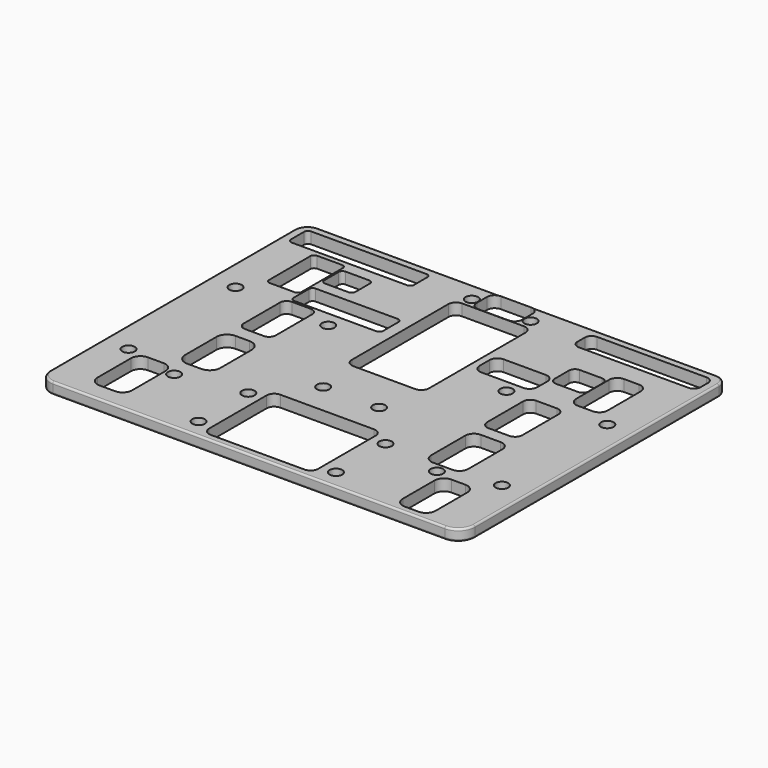
from build123d import *

# Parameters (mm, degrees)
SKETCH_R     = 1.65
PAD001_DEPTH = 3
FILLET_R     = 0.5
FILLET001_R  = 0.5
POCKET_DEPTH = 2


with BuildPart() as part:
    # Sketch → Pad001 (new body)
    with BuildSketch(Plane.XY):
        with BuildLine():
            Line((-55.535944, 39.732814), (-55.535944, -40.547299))
            ThreePointArc((-55.535944, -40.547299), (-54.462861, -43.137949), (-51.872211, -44.211031))
            Line((-51.872211, -44.211031), (51.109721, -44.211031))
            ThreePointArc((51.109721, -44.211031), (54.227189, -42.919734), (55.518486, -39.802266))
            Line((55.518486, -39.802266), (55.518486, 40.274742))
            ThreePointArc((55.518486, 40.274742), (54.676723, 42.306937), (52.644529, 43.148699))
            Line((52.644529, 43.148699), (-52.120058, 43.148699))
            ThreePointArc((-52.120058, 43.148699), (-54.535454, 42.148209), (-55.535944, 39.732814))
        make_face()
        with Locations((-48.832985, 12.003058)):
            Circle(SKETCH_R, mode=Mode.SUBTRACT)
        with Locations((-48.804817, -23.155836)):
            Circle(SKETCH_R, mode=Mode.SUBTRACT)
        with Locations((-34.51368, -26.033752)):
            Circle(SKETCH_R, mode=Mode.SUBTRACT)
        with Locations((34.487095, -26.022638)):
            Circle(SKETCH_R, mode=Mode.SUBTRACT)
        with Locations((48.799397, -22.561535)):
            Circle(SKETCH_R, mode=Mode.SUBTRACT)
        with Locations((48.812523, 12.011016)):
            Circle(SKETCH_R, mode=Mode.SUBTRACT)
        with Locations((-23.416063, 10.667929)):
            Circle(SKETCH_R, mode=Mode.SUBTRACT)
        with Locations((-7.627645, 38.092228)):
            Circle(SKETCH_R, mode=Mode.SUBTRACT)
        with Locations((-17.506445, -39.276318)):
            Circle(SKETCH_R, mode=Mode.SUBTRACT)
        with Locations((18.594236, -39.308205)):
            Circle(SKETCH_R, mode=Mode.SUBTRACT)
        with Locations((23.388559, 10.688946)):
            Circle(SKETCH_R, mode=Mode.SUBTRACT)
        with Locations((-17.437279, -23.057079)):
            Circle(SKETCH_R, mode=Mode.SUBTRACT)
        with Locations((18.611448, -23.057079)):
            Circle(SKETCH_R, mode=Mode.SUBTRACT)
        with Locations((7.816847, 38.083221)):
            Circle(SKETCH_R, mode=Mode.SUBTRACT)
        with Locations((-7.126099, -11.336139)):
            Circle(SKETCH_R, mode=Mode.SUBTRACT)
        with Locations((7.527539, -11.290956)):
            Circle(SKETCH_R, mode=Mode.SUBTRACT)
        with BuildLine():
            Line((21.048507, 39.34932), (21.048507, 36.946858))
            ThreePointArc((21.048507, 36.946858), (21.56868, 35.691047), (22.824492, 35.170873))
            Line((22.824492, 35.170873), (51.613641, 35.170873))
            ThreePointArc((51.613641, 35.170873), (52.869452, 35.691047), (53.389626, 36.946858))
            Line((53.389626, 36.946858), (53.389626, 39.34932))
            ThreePointArc((53.389626, 39.34932), (52.869452, 40.605131), (51.613641, 41.125305))
            Line((51.613641, 41.125305), (22.824492, 41.125305))
            ThreePointArc((22.824492, 41.125305), (21.56868, 40.605131), (21.048507, 39.34932))
        make_face(mode=Mode.SUBTRACT)
        with BuildLine():
            Line((27.674845, 25.864204), (27.674845, 21.14879))
            ThreePointArc((27.674845, 21.14879), (28.132254, 20.044507), (29.236537, 19.587098))
            Line((29.236537, 19.587098), (35.044849, 19.587098))
            ThreePointArc((35.044849, 19.587098), (36.149132, 20.044507), (36.606541, 21.14879))
            Line((36.606541, 21.14879), (36.606541, 25.864204))
            ThreePointArc((36.606541, 25.864204), (36.149132, 26.968487), (35.044849, 27.425896))
            Line((35.044849, 27.425896), (29.236537, 27.425896))
            ThreePointArc((29.236537, 27.425896), (28.132254, 26.968487), (27.674845, 25.864204))
        make_face(mode=Mode.SUBTRACT)
        with BuildLine():
            Line((-38.127041, -7.632343), (-38.127041, -17.924945))
            ThreePointArc((-38.127041, -17.924945), (-37.315203, -19.884895), (-35.355253, -20.696733))
            Line((-35.355253, -20.696733), (-31.643923, -20.696733))
            ThreePointArc((-31.643923, -20.696733), (-29.683973, -19.884895), (-28.872135, -17.924945))
            Line((-28.872135, -17.924945), (-28.872135, -7.632343))
            ThreePointArc((-28.872135, -7.632343), (-29.683973, -5.672393), (-31.643923, -4.860555))
            Line((-31.643923, -4.860555), (-35.355253, -4.860555))
            ThreePointArc((-35.355253, -4.860555), (-37.315203, -5.672393), (-38.127041, -7.632343))
        make_face(mode=Mode.SUBTRACT)
        with BuildLine():
            Line((-45.887371, -25.986312), (-45.887371, -37.017855))
            ThreePointArc((-45.887371, -37.017855), (-45.167844, -38.754946), (-43.430753, -39.474473))
            Line((-43.430753, -39.474473), (-39.259172, -39.474473))
            ThreePointArc((-39.259172, -39.474473), (-37.522081, -38.754946), (-36.802554, -37.017855))
            Line((-36.802554, -37.017855), (-36.802554, -25.986312))
            ThreePointArc((-36.802554, -25.986312), (-37.522081, -24.249221), (-39.259172, -23.529694))
            Line((-39.259172, -23.529694), (-43.430753, -23.529694))
            ThreePointArc((-43.430753, -23.529694), (-45.167844, -24.249221), (-45.887371, -25.986312))
        make_face(mode=Mode.SUBTRACT)
        with BuildLine():
            Line((44.96429, 16.920308), (44.96429, 27.798373))
            ThreePointArc((44.96429, 27.798373), (44.334596, 29.318589), (42.814379, 29.948284))
            Line((42.814379, 29.948284), (38.831258, 29.948284))
            ThreePointArc((38.831258, 29.948284), (37.311041, 29.318589), (36.681347, 27.798373))
            Line((36.681347, 27.798373), (36.681347, 16.920308))
            ThreePointArc((36.681347, 16.920308), (37.311041, 15.400092), (38.831258, 14.770397))
            Line((38.831258, 14.770397), (42.814379, 14.770397))
            ThreePointArc((42.814379, 14.770397), (44.334596, 15.400092), (44.96429, 16.920308))
        make_face(mode=Mode.SUBTRACT)
        with BuildLine():
            Line((28.896994, 9.258367), (28.896994, -2.534084))
            ThreePointArc((28.896994, -2.534084), (29.460293, -3.894007), (30.820216, -4.457306))
            Line((30.820216, -4.457306), (36.239589, -4.457306))
            ThreePointArc((36.239589, -4.457306), (37.599512, -3.894007), (38.162811, -2.534084))
            Line((38.162811, -2.534084), (38.162811, 9.258367))
            ThreePointArc((38.162811, 9.258367), (37.599512, 10.61829), (36.239589, 11.181589))
            Line((36.239589, 11.181589), (30.820216, 11.181589))
            ThreePointArc((30.820216, 11.181589), (29.460293, 10.61829), (28.896994, 9.258367))
        make_face(mode=Mode.SUBTRACT)
        with BuildLine():
            Line((29.120903, -10.001141), (29.120903, -21.235077))
            ThreePointArc((29.120903, -21.235077), (29.784206, -22.836431), (31.38556, -23.499734))
            Line((31.38556, -23.499734), (36.602341, -23.499734))
            ThreePointArc((36.602341, -23.499734), (38.203695, -22.836431), (38.866998, -21.235077))
            Line((38.866998, -21.235077), (38.866998, -10.001141))
            ThreePointArc((38.866998, -10.001141), (38.203695, -8.399787), (36.602341, -7.736484))
            Line((36.602341, -7.736484), (31.38556, -7.736484))
            ThreePointArc((31.38556, -7.736484), (29.784206, -8.399787), (29.120903, -10.001141))
        make_face(mode=Mode.SUBTRACT)
        with BuildLine():
            Line((36.64819, -29.48735), (36.64819, -39.934127))
            ThreePointArc((36.64819, -39.934127), (37.367438, -41.670546), (39.103857, -42.389794))
            Line((39.103857, -42.389794), (42.783469, -42.389794))
            ThreePointArc((42.783469, -42.389794), (44.519888, -41.670546), (45.239136, -39.934127))
            Line((45.239136, -39.934127), (45.239136, -29.48735))
            ThreePointArc((45.239136, -29.48735), (44.519888, -27.750931), (42.783469, -27.031683))
            Line((42.783469, -27.031683), (39.103857, -27.031683))
            ThreePointArc((39.103857, -27.031683), (37.367438, -27.750931), (36.64819, -29.48735))
        make_face(mode=Mode.SUBTRACT)
        with BuildLine():
            Line((-36.619841, 20.818735), (-36.619841, 15.791749))
            ThreePointArc((-36.619841, 15.791749), (-36.326948, 15.084642), (-35.619841, 14.791749))
            Line((-35.619841, 14.791749), (-14.076567, 14.791749))
            ThreePointArc((-14.076567, 14.791749), (-13.36946, 15.084642), (-13.076567, 15.791749))
            Line((-13.076567, 15.791749), (-13.076567, 20.818735))
            ThreePointArc((-13.076567, 20.818735), (-13.36946, 21.525842), (-14.076567, 21.818735))
            Line((-14.076567, 21.818735), (-35.619841, 21.818735))
            ThreePointArc((-35.619841, 21.818735), (-36.326948, 21.525842), (-36.619841, 20.818735))
        make_face(mode=Mode.SUBTRACT)
        with BuildLine():
            Line((-45.497589, 32.40263), (-45.497589, 18.866026))
            ThreePointArc((-45.497589, 18.866026), (-45.204696, 18.158919), (-44.497589, 17.866026))
            Line((-44.497589, 17.866026), (-37.972385, 17.866026))
            ThreePointArc((-37.972385, 17.866026), (-37.265278, 18.158919), (-36.972385, 18.866026))
            Line((-36.972385, 18.866026), (-36.972385, 32.40263))
            ThreePointArc((-36.972385, 32.40263), (-37.265278, 33.109737), (-37.972385, 33.40263))
            Line((-37.972385, 33.40263), (-44.497589, 33.40263))
            ThreePointArc((-44.497589, 33.40263), (-45.204696, 33.109737), (-45.497589, 32.40263))
        make_face(mode=Mode.SUBTRACT)
        with BuildLine():
            Line((-36.549717, 30.537743), (-36.549717, 25.770863))
            ThreePointArc((-36.549717, 25.770863), (-36.256823, 25.063756), (-35.549717, 24.770863))
            Line((-35.549717, 24.770863), (-29.344208, 24.770863))
            ThreePointArc((-29.344208, 24.770863), (-28.637101, 25.063756), (-28.344208, 25.770863))
            Line((-28.344208, 25.770863), (-28.344208, 30.537743))
            ThreePointArc((-28.344208, 30.537743), (-28.637101, 31.24485), (-29.344208, 31.537743))
            Line((-29.344208, 31.537743), (-35.549717, 31.537743))
            ThreePointArc((-35.549717, 31.537743), (-36.256823, 31.24485), (-36.549717, 30.537743))
        make_face(mode=Mode.SUBTRACT)
        with BuildLine():
            Line((-53.25082, 40.06641), (-53.25082, 35.707352))
            ThreePointArc((-53.25082, 35.707352), (-52.957927, 35.000245), (-52.25082, 34.707352))
            Line((-52.25082, 34.707352), (-21.899115, 34.707352))
            ThreePointArc((-21.899115, 34.707352), (-21.192008, 35.000245), (-20.899115, 35.707352))
            Line((-20.899115, 35.707352), (-20.899115, 40.06641))
            ThreePointArc((-20.899115, 40.06641), (-21.192008, 40.773517), (-21.899115, 41.06641))
            Line((-21.899115, 41.06641), (-52.25082, 41.06641))
            ThreePointArc((-52.25082, 41.06641), (-52.957927, 40.773517), (-53.25082, 40.06641))
        make_face(mode=Mode.SUBTRACT)
        with BuildLine():
            Line((27.240212, 16.042996), (27.240212, 19.312002))
            ThreePointArc((27.240212, 19.312002), (26.63701, 20.76826), (25.180751, 21.371462))
            Line((25.180751, 21.371462), (14.104146, 21.371462))
            ThreePointArc((14.104146, 21.371462), (12.647887, 20.76826), (12.044685, 19.312002))
            Line((12.044685, 19.312002), (12.044685, 16.042996))
            ThreePointArc((12.044685, 16.042996), (12.647887, 14.586738), (14.104146, 13.983536))
            Line((14.104146, 13.983536), (25.180751, 13.983536))
            ThreePointArc((25.180751, 13.983536), (26.63701, 14.586738), (27.240212, 16.042996))
        make_face(mode=Mode.SUBTRACT)
        with BuildLine():
            Line((-29.044026, 0.462667), (-29.044026, 12.431702))
            ThreePointArc((-29.044026, 12.431702), (-29.552703, 13.659757), (-30.780758, 14.168434))
            Line((-30.780758, 14.168434), (-35.745518, 14.168434))
            ThreePointArc((-35.745518, 14.168434), (-36.973573, 13.659757), (-37.48225, 12.431702))
            Line((-37.48225, 12.431702), (-37.48225, 0.462667))
            ThreePointArc((-37.48225, 0.462667), (-36.973573, -0.765388), (-35.745518, -1.274065))
            Line((-35.745518, -1.274065), (-30.780758, -1.274065))
            ThreePointArc((-30.780758, -1.274065), (-29.552703, -0.765388), (-29.044026, 0.462667))
        make_face(mode=Mode.SUBTRACT)
        with BuildLine():
            Line((-13.861973, -21.510708), (-13.861973, -40.377301))
            ThreePointArc((-13.861973, -40.377301), (-13.276187, -41.791514), (-11.861973, -42.377301))
            Line((-11.861973, -42.377301), (12.788297, -42.377301))
            ThreePointArc((12.788297, -42.377301), (14.202511, -41.791514), (14.788297, -40.377301))
            Line((14.788297, -40.377301), (14.788297, -21.510708))
            ThreePointArc((14.788297, -21.510708), (14.202511, -20.096494), (12.788297, -19.510708))
            Line((12.788297, -19.510708), (-11.861973, -19.510708))
            ThreePointArc((-11.861973, -19.510708), (-13.276187, -20.096494), (-13.861973, -21.510708))
        make_face(mode=Mode.SUBTRACT)
        with BuildLine():
            Line((-10.076647, 33.436817), (-10.076647, 1.730259))
            ThreePointArc((-10.076647, 1.730259), (-9.490861, 0.316045), (-8.076647, -0.269741))
            Line((-8.076647, -0.269741), (8.199183, -0.269741))
            ThreePointArc((8.199183, -0.269741), (9.613397, 0.316045), (10.199183, 1.730259))
            Line((10.199183, 1.730259), (10.199183, 33.436817))
            ThreePointArc((10.199183, 33.436817), (9.613397, 34.851031), (8.199183, 35.436817))
            Line((8.199183, 35.436817), (-8.076647, 35.436817))
            ThreePointArc((-8.076647, 35.436817), (-9.490861, 34.851031), (-10.076647, 33.436817))
        make_face(mode=Mode.SUBTRACT)
        with BuildLine():
            Line((-5.871416, 40.89268), (-5.871416, 37.514991))
            ThreePointArc((-5.871416, 37.514991), (-5.28563, 36.100777), (-3.871416, 35.514991))
            Line((-3.871416, 35.514991), (4.089256, 35.514991))
            ThreePointArc((4.089256, 35.514991), (5.50347, 36.100777), (6.089256, 37.514991))
            Line((6.089256, 37.514991), (6.089256, 40.89268))
            ThreePointArc((6.089256, 40.89268), (5.50347, 42.306894), (4.089256, 42.89268))
            Line((4.089256, 42.89268), (-3.871416, 42.89268))
            ThreePointArc((-3.871416, 42.89268), (-5.28563, 42.306894), (-5.871416, 40.89268))
        make_face(mode=Mode.SUBTRACT)
    extrude(amount=PAD001_DEPTH)

    # Fillet
    fillet_edges = [part.edges().sort_by_distance(p)[0] for p in [
        (-0.381245, -44.211031, 3),
    ]]
    fillet(fillet_edges, radius=FILLET_R)

    # Fillet001
    fillet001_edges = [part.edges().sort_by_distance(p)[0] for p in [
        (-0.381245, -44.211031, 0),
    ]]
    fillet(fillet001_edges, radius=FILLET001_R)

    # Sketch006 (on Face9 of Fillet001) → Pocket (cut)
    with BuildSketch(Plane(origin=(0, 0, 0), x_dir=(1, 0, 0), z_dir=(0, 0, -1))):
        with BuildLine():
            Line((-5.266404, 11.415284), (-5.266404, 2.510236))
            ThreePointArc((-5.266404, 2.510236), (-4.680618, 1.096022), (-3.266404, 0.510236))
            Line((-3.266404, 0.510236), (3.791066, 0.510236))
            ThreePointArc((3.791066, 0.510236), (5.20528, 1.096022), (5.791066, 2.510236))
            Line((5.791066, 2.510236), (5.791066, 11.415284))
            ThreePointArc((5.791066, 11.415284), (5.20528, 12.829498), (3.791066, 13.415284))
            Line((3.791066, 13.415284), (-3.266404, 13.415284))
            ThreePointArc((-3.266404, 13.415284), (-4.680618, 12.829498), (-5.266404, 11.415284))
        make_face()
    extrude(amount=-POCKET_DEPTH, mode=Mode.SUBTRACT)


solid = part.part
